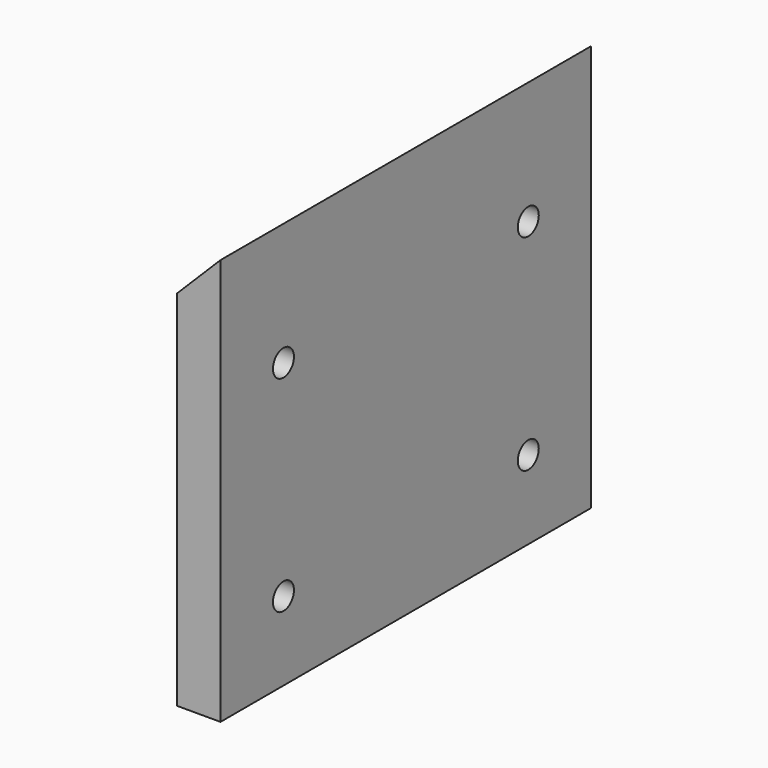
from build123d import *

# Parameters (mm, degrees)
F1_DEPTH       = 53
F3_D           = 3
F3_CSINK_D     = 7.5
F3_CSINK_ANGLE = 90


with BuildPart() as f1:
    # F0 (on Front) → F1 (new body)
    with BuildSketch(Plane.XZ):
        Polygon((0, 41.5), (0, 0), (5, 0), (5, 46.5), align=None)
    extrude(amount=F1_DEPTH)

    # F3 (through all)
    with Locations(Plane(origin=(0, 0, 0), x_dir=(0, -1, 0), z_dir=(-1, 0, 0))):
        with Locations((9, 32.5), (44, 32.5), (44, 9), (9, 9)):
            CounterSinkHole(F3_D / 2, F3_CSINK_D / 2, counter_sink_angle=F3_CSINK_ANGLE)


solid = f1.part
